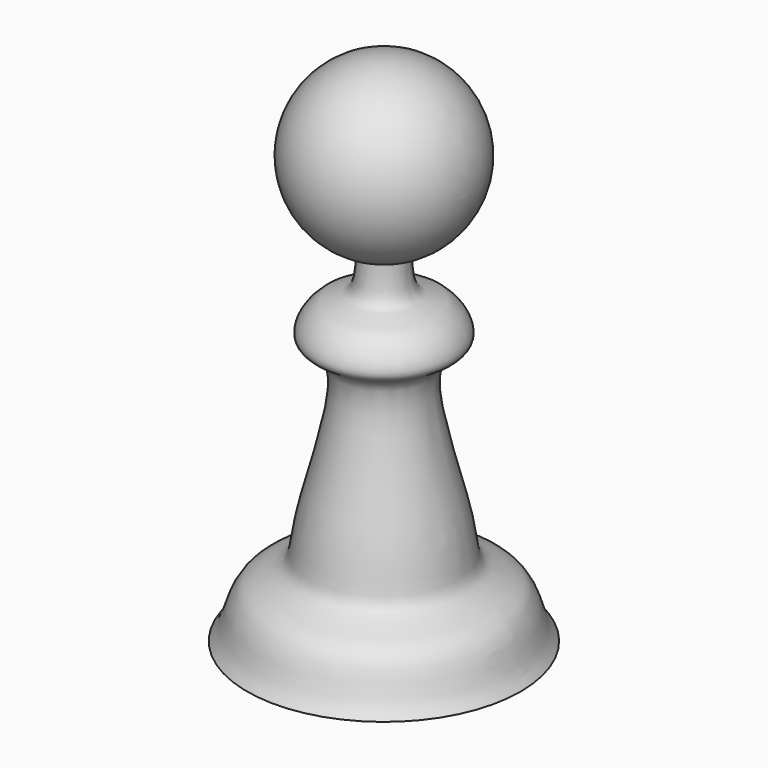
from build123d import *


with BuildPart() as f2:
    # F0 (on Front) → F2 (revolve)
    with BuildSketch(Plane.XZ):
        with BuildLine():
            Line((0, 7.3922411398), (0, -12.6077588602))
            Line((0, -12.6077588602), (8, -12.6077588602))
            add(Edge.make_bspline(
                [(8, -12.6077588602), (7.4958017027, -12.0336480737), (7.2971531334, -10.8320496777), (6.5045172706, -9.4247816917), (4.187245229, -8.8263418995), (4.4442988316, -6.3361044293), (1.2861822336, 2.3665209403), (4.7467065832, 2.6905281785), (3.2652815725, 5.2140194602), (1.3303927457, 5.0595628796), (1.2851601406, 6.6843310851), (1.2728349165, 7.5569654211)],
                knots=[0, 0, 0, 0, 0.1002953999, 0.1886585705, 0.2874465499, 0.39985754, 0.6061632029, 0.7031433292, 0.8042656629, 0.8942503554, 1, 1, 1, 1], degree=3))
            ThreePointArc((1.2728349165, 7.5569654211), (4.9586479303, 13.0339659277), (0, 17.3922411398))
            Line((0, 17.3922411398), (0, 7.3922411398))
        make_face()
    revolve(axis=Axis((0, 0, 0.3885673359), (0, 0, -1)))


solid = f2.part
